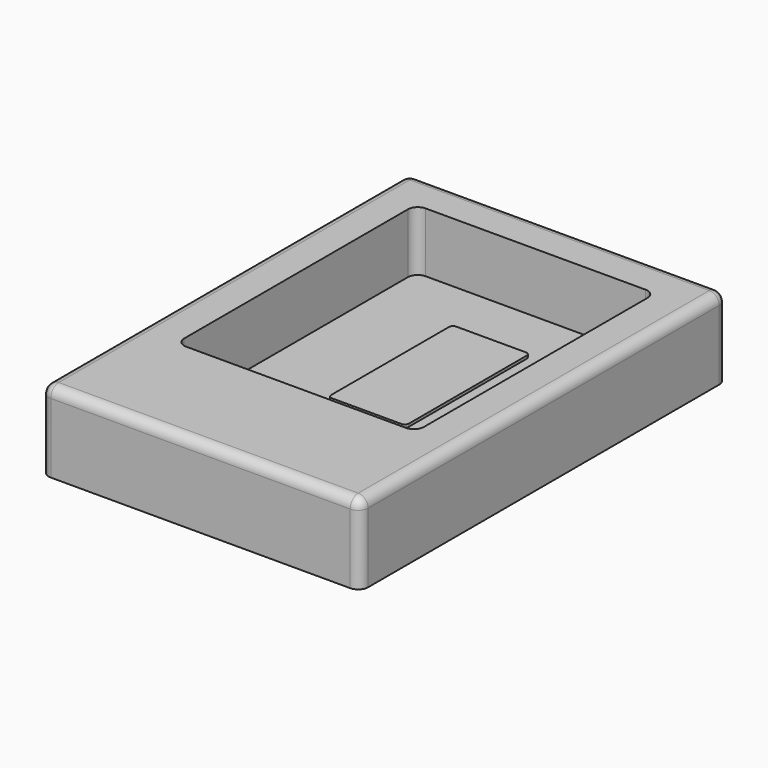
from build123d import *

# Parameters (mm, degrees)
F0_W     = 80.2
F0_H     = 115.2
F0_W_2   = 60.2
F0_H_2   = 75.2
F1_DEPTH = 20
F0_W_3   = 19.5
F0_H_3   = 39
F2_DEPTH = 5
F3_R     = 2.5
F4_R     = 2.5
F5_DEPTH = 5.7
F6_R     = 1


with BuildPart() as f1:
    # F0 (on Top) → F1 (new body)
    with BuildSketch(Plane.XY):
        with Locations((0, -10)):
            Rectangle(F0_W, F0_H)
        Rectangle(F0_W_2, F0_H_2, mode=Mode.SUBTRACT)
    extrude(amount=F1_DEPTH)

    # F0 (on Top) → F2 (join)
    with BuildSketch(Plane.XY):
        Rectangle(F0_W_2, F0_H_2)
        with Locations((0, 4.1)):
            Rectangle(F0_W_3, F0_H_3, mode=Mode.SUBTRACT)
    extrude(amount=F2_DEPTH)

    # F3
    f3_edges = [f1.edges().sort_by_distance(p)[0] for p in [
        (-30.1, 37.6, 12.5),
        (30.1, 37.6, 12.5),
        (-30.1, -37.6, 12.5),
        (30.1, -37.6, 12.5),
    ]]
    fillet(f3_edges, radius=F3_R)

    # F4
    f4_edges = [f1.edges().sort_by_distance(p)[0] for p in [
        (-40.1, -67.6, 10),
        (40.1, -67.6, 10),
        (40.1, 47.6, 10),
        (-40.1, 47.6, 10),
        (40.1, -10, 20),
        (0, -67.6, 20),
        (0, 47.6, 20),
        (-40.1, -10, 20),
    ]]
    fillet(f4_edges, radius=F4_R)

    # F0 (on Top) → F5 (join)
    with BuildSketch(Plane.XY):
        with Locations((0, 4.1)):
            Rectangle(F0_W_3, F0_H_3)
    extrude(amount=F5_DEPTH)

    # F6
    f6_edges = [f1.edges().sort_by_distance(p)[0] for p in [
        (-9.75, -15.4, 5.35),
        (9.75, -15.4, 5.35),
        (9.75, 23.6, 5.35),
        (-9.75, 23.6, 5.35),
    ]]
    fillet(f6_edges, radius=F6_R)


solid = f1.part
